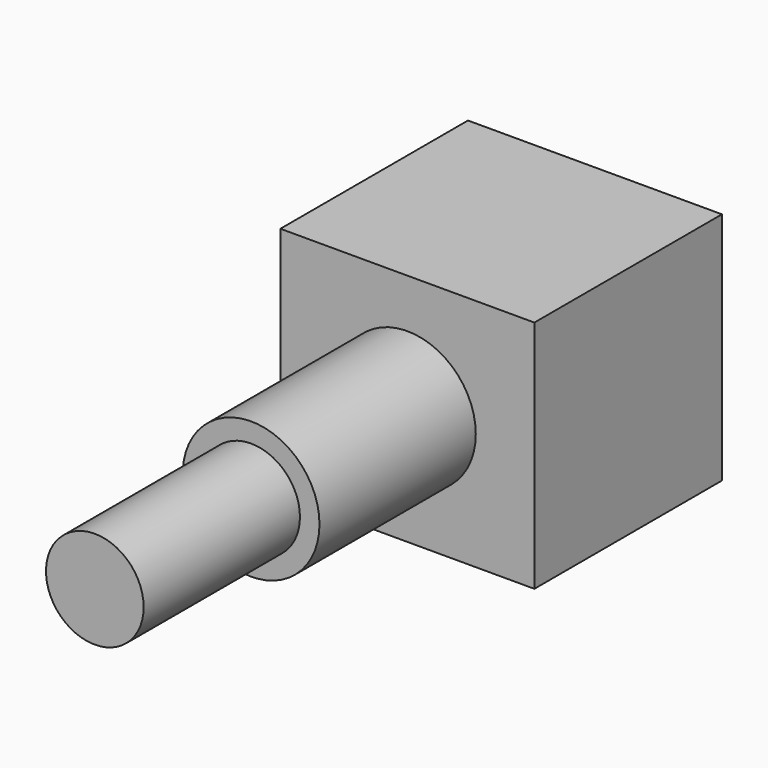
from build123d import *

# Parameters (mm, degrees)
SKETCH026_R             = 3.5
PAD026_DEPTH            = 10
SKETCH027_R             = 2.5
PAD027_DEPTH            = 10
SKETCH028_W             = 13
SKETCH028_H             = 12
PAD028_DEPTH            = 12
BODY010_PLACEMENT_ANGLE = 90


with BuildPart() as part:
    # Sketch026 → Pad026 (new body)
    with BuildSketch(Plane.XY):
        Circle(SKETCH026_R)
    extrude(amount=PAD026_DEPTH)

    # Sketch027 (on Face3 of Pad026) → Pad027 (join)
    with BuildSketch(Plane.XY.offset(10)):
        Circle(SKETCH027_R)
    extrude(amount=PAD027_DEPTH)

    # Sketch028 (on Face2 of Pad027) → Pad028 (join)
    with BuildSketch(Plane(origin=(0, 0, 0), x_dir=(1, 0, 0), z_dir=(0, 0, -1))):
        Rectangle(SKETCH028_W, SKETCH028_H)
    extrude(amount=PAD028_DEPTH)


with BuildPart() as part_1:
    # Body010 placement: moved
    add(part.part.moved(Location((0, 1.5, 22))).rotate(Axis((0, 1.5, 22), (1, 0, 0)), BODY010_PLACEMENT_ANGLE))


solid = part_1.part
